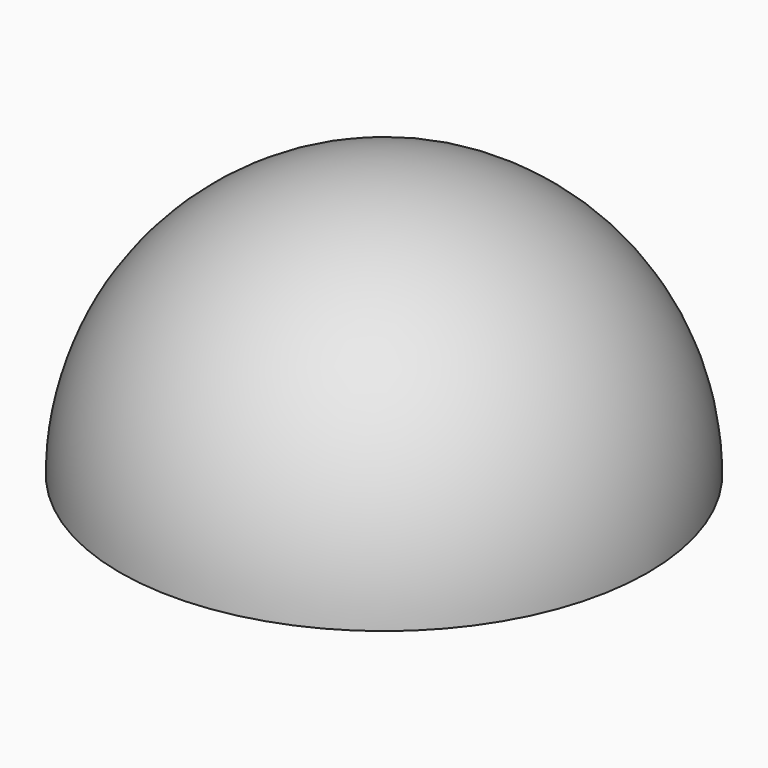
from build123d import *

# Parameters (mm, degrees)
F1_ANGLE = -180


with BuildPart() as f1:
    # F0 (on Top) → F1 (revolve)
    with BuildSketch(Plane.XY):
        with BuildLine():
            Line((15.297448, 0), (-15.297448, 0))
            ThreePointArc((-15.297448, 0), (0, -15.297448), (15.297448, 0))
        make_face()
    revolve(axis=Axis((0, 0, 0), (1, 0, 0)), revolution_arc=F1_ANGLE)


solid = f1.part
